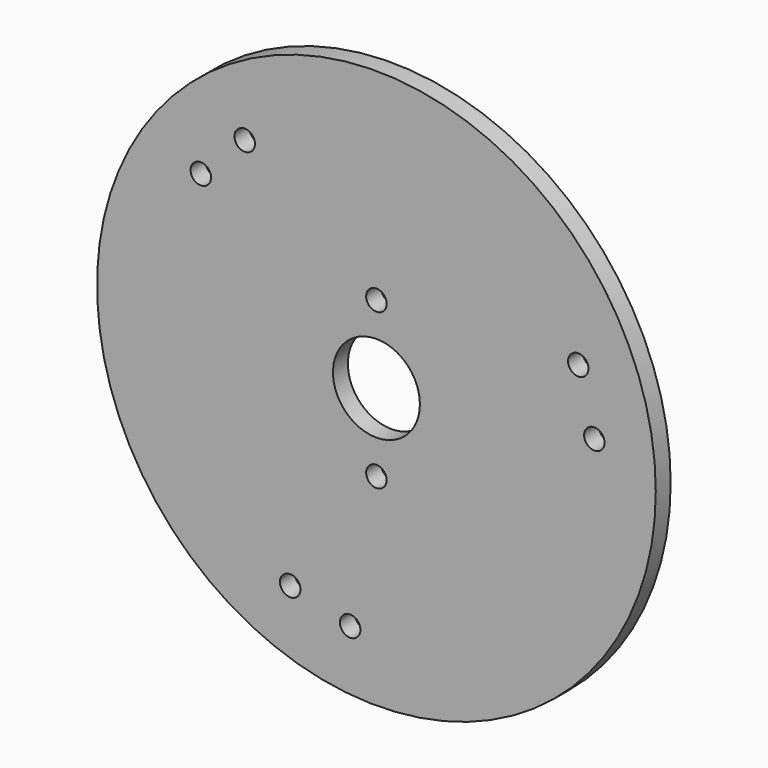
from build123d import *

# Parameters (mm, degrees)
F0_R     = 45
F0_R_2   = 7
F1_DEPTH = 3
F2_D     = 3.3
F3_D     = 3.3


with BuildPart() as f1:
    # F0 (on Front) → F1 (new body)
    with BuildSketch(Plane.XZ):
        Circle(F0_R)
        Circle(F0_R_2, mode=Mode.SUBTRACT)
    extrude(amount=-F1_DEPTH)

    # F2 (through all)
    with Locations(Plane.XZ):
        with Locations((-21.2132034356, 28.2842712475), (-28.2842712475, 21.2132034356), (-13.88829571, -32.5133086946), (-4.2290374471, -35.1014991456), (35.1014991456, 4.2290374471), (32.5133086946, 13.88829571)):
            Hole(F2_D / 2)

    # F3 (through all)
    with Locations(Plane.XZ):
        with Locations((0, 12.5), (0, -12.5)):
            Hole(F3_D / 2)


solid = f1.part
